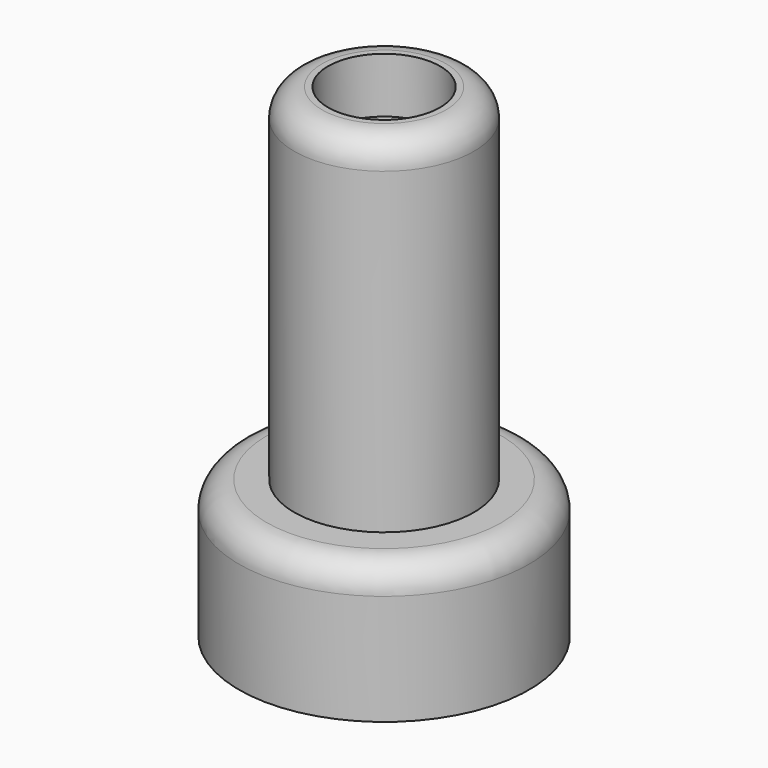
from build123d import *

# Parameters (mm, degrees)
F2_R = 2


with BuildPart() as f1:
    # F0 (on Front) → F1 (revolve)
    with BuildSketch(Plane.XZ):
        Polygon((-10.5, 0), (-4.7, 0), (-4.7, 5), (-1.73, 5), (-1.73, 31), (-4.05, 31), (-4.05, 35), (-6.5, 35), (-6.5, 10), (-10.5, 10), align=None)
    revolve(axis=Axis((0, 0, 17), (0, 0, 1)))

    # F2
    f2_edges = [f1.edges().sort_by_distance(p)[0] for p in [
        (10.5, 0, 10),
        (6.5, 0, 35),
    ]]
    fillet(f2_edges, radius=F2_R)


solid = f1.part
